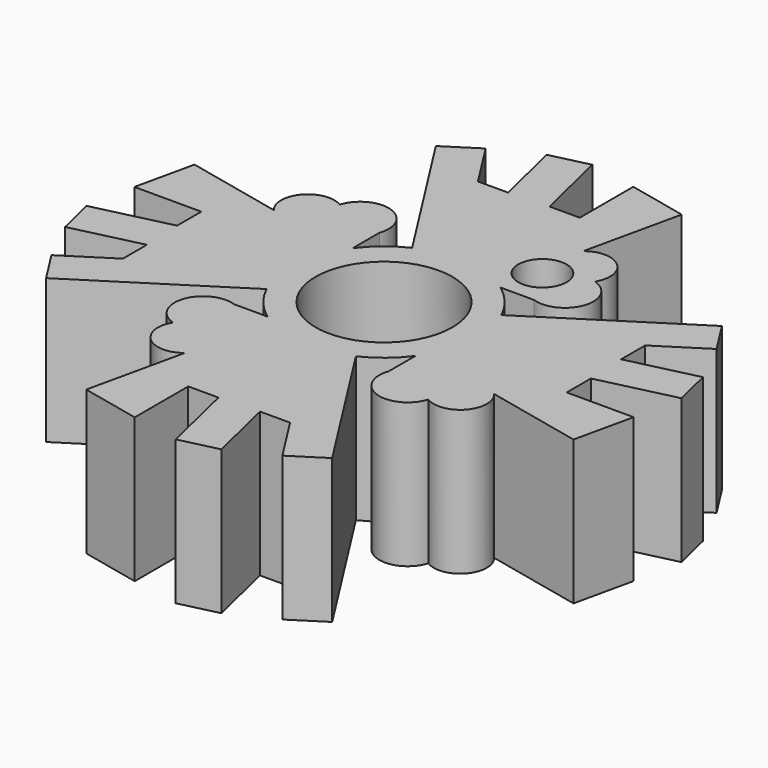
from build123d import *

# Parameters (mm, degrees)
F1_DEPTH = 25.4
F2_R     = 12.041499
F3_DEPTH = 25.4
F4_R     = 4.250417
F5_DEPTH = 25.401


with BuildPart() as f1:
    # F0 (on Top) → F1 (new body)
    with BuildSketch(Plane.XY):
        with BuildLine():
            ThreePointArc((-15.021411, -7.063877), (-16.521823, 1.603285), (-13.382968, 9.82025))
            Line((-13.382968, 9.82025), (-13.382968, 15.685415))
            ThreePointArc((-13.382968, 15.685415), (-16.512447, 22.126296), (-22.880558, 18.851278))
            ThreePointArc((-22.880558, 18.851278), (-28.833329, 17.93548), (-28.931248, 11.913473))
            Line((-28.931248, 11.913473), (-45.90502, 15.685415))
            Line((-45.90502, 15.685415), (-48.207462, 5.324407))
            Line((-48.207462, 5.324407), (-36.421049, 5.324407))
            Line((-36.421049, 5.324407), (-36.421049, 0))
            Line((-36.421049, 0), (-49.811375, -3.183969))
            Line((-49.811375, -3.183969), (-48.207462, -9.929298))
            Line((-48.207462, -9.929298), (-36.103659, -7.05124))
            Line((-36.103659, -7.05124), (-36.103659, -12.34197))
            Line((-36.103659, -12.34197), (-44.427202, -17.650355))
            Line((-44.427202, -17.650355), (-40.724512, -23.456169))
            Line((-40.724512, -23.456169), (-15.021411, -7.063877))
        make_face()
        with BuildLine():
            ThreePointArc((13.382968, -9.82025), (15.774835, -5.166792), (16.599433, 0))
            ThreePointArc((16.599433, 0), (16.200124, 3.618995), (15.021411, 7.063877))
            ThreePointArc((15.021411, 7.063877), (12.816387, 10.549), (9.82025, 13.382968))
            ThreePointArc((9.82025, 13.382968), (1.603285, 16.521823), (-7.063877, 15.021411))
            ThreePointArc((-7.063877, 15.021411), (-10.549, 12.816387), (-13.382968, 9.82025))
            ThreePointArc((-13.382968, 9.82025), (-16.521823, 1.603285), (-15.021411, -7.063877))
            ThreePointArc((-15.021411, -7.063877), (-12.816387, -10.549), (-9.82025, -13.382968))
            ThreePointArc((-9.82025, -13.382968), (-1.603285, -16.521823), (7.063877, -15.021411))
            ThreePointArc((7.063877, -15.021411), (10.549, -12.816387), (13.382968, -9.82025))
        make_face()
        with BuildLine():
            ThreePointArc((15.021411, 7.063877), (16.200124, 3.618995), (16.599433, 0))
            ThreePointArc((16.599433, 0), (15.774835, -5.166792), (13.382968, -9.82025))
            Line((13.382968, -9.82025), (13.382968, -15.685415))
            ThreePointArc((13.382968, -15.685415), (16.512447, -22.126296), (22.880558, -18.851278))
            ThreePointArc((22.880558, -18.851278), (28.833329, -17.93548), (28.931248, -11.913473))
            Line((28.931248, -11.913473), (45.90502, -15.685415))
            Line((45.90502, -15.685415), (48.207462, -5.324407))
            Line((48.207462, -5.324407), (36.421049, -5.324407))
            Line((36.421049, -5.324407), (36.421049, 0))
            Line((36.421049, 0), (49.811375, 3.183969))
            Line((49.811375, 3.183969), (48.207462, 9.929298))
            Line((48.207462, 9.929298), (36.103659, 7.05124))
            Line((36.103659, 7.05124), (36.103659, 12.34197))
            Line((36.103659, 12.34197), (44.427202, 17.650355))
            Line((44.427202, 17.650355), (40.724512, 23.456169))
            Line((40.724512, 23.456169), (15.021411, 7.063877))
        make_face()
        with BuildLine():
            Line((23.456169, -40.724512), (7.063877, -15.021411))
            ThreePointArc((7.063877, -15.021411), (-1.603285, -16.521823), (-9.82025, -13.382968))
            Line((-9.82025, -13.382968), (-15.685415, -13.382968))
            ThreePointArc((-15.685415, -13.382968), (-22.126296, -16.512447), (-18.851278, -22.880558))
            ThreePointArc((-18.851278, -22.880558), (-17.93548, -28.833329), (-11.913473, -28.931248))
            Line((-11.913473, -28.931248), (-15.685415, -45.90502))
            Line((-15.685415, -45.90502), (-5.324407, -48.207462))
            Line((-5.324407, -48.207462), (-5.324407, -36.421049))
            Line((-5.324407, -36.421049), (0, -36.421049))
            Line((0, -36.421049), (3.183969, -49.811375))
            Line((3.183969, -49.811375), (9.929298, -48.207462))
            Line((9.929298, -48.207462), (7.05124, -36.103659))
            Line((7.05124, -36.103659), (12.34197, -36.103659))
            Line((12.34197, -36.103659), (17.650355, -44.427202))
            Line((17.650355, -44.427202), (23.456169, -40.724512))
        make_face()
        with BuildLine():
            ThreePointArc((-7.063877, 15.021411), (1.603285, 16.521823), (9.82025, 13.382968))
            Line((9.82025, 13.382968), (15.685415, 13.382968))
            ThreePointArc((15.685415, 13.382968), (22.126296, 16.512447), (18.851278, 22.880558))
            ThreePointArc((18.851278, 22.880558), (17.93548, 28.833329), (11.913473, 28.931248))
            Line((11.913473, 28.931248), (15.685415, 45.90502))
            Line((15.685415, 45.90502), (5.324407, 48.207462))
            Line((5.324407, 48.207462), (5.324407, 36.421049))
            Line((5.324407, 36.421049), (0, 36.421049))
            Line((0, 36.421049), (-3.183969, 49.811375))
            Line((-3.183969, 49.811375), (-9.929298, 48.207462))
            Line((-9.929298, 48.207462), (-7.05124, 36.103659))
            Line((-7.05124, 36.103659), (-12.34197, 36.103659))
            Line((-12.34197, 36.103659), (-17.650355, 44.427202))
            Line((-17.650355, 44.427202), (-23.456169, 40.724512))
            Line((-23.456169, 40.724512), (-7.063877, 15.021411))
        make_face()
    extrude(amount=F1_DEPTH)

    # F2 (on face) → F3 (cut)
    with BuildSketch(Plane.XY.offset(25.4)):
        Circle(F2_R)
    extrude(amount=-F3_DEPTH, mode=Mode.SUBTRACT)

    # F4 (on face) → F5 (cut, through all)
    with BuildSketch(Plane.XY.offset(25.4)):
        with Locations((11.656133, 20.290306)):
            Circle(F4_R)
    extrude(amount=-F5_DEPTH, mode=Mode.SUBTRACT)


solid = f1.part
